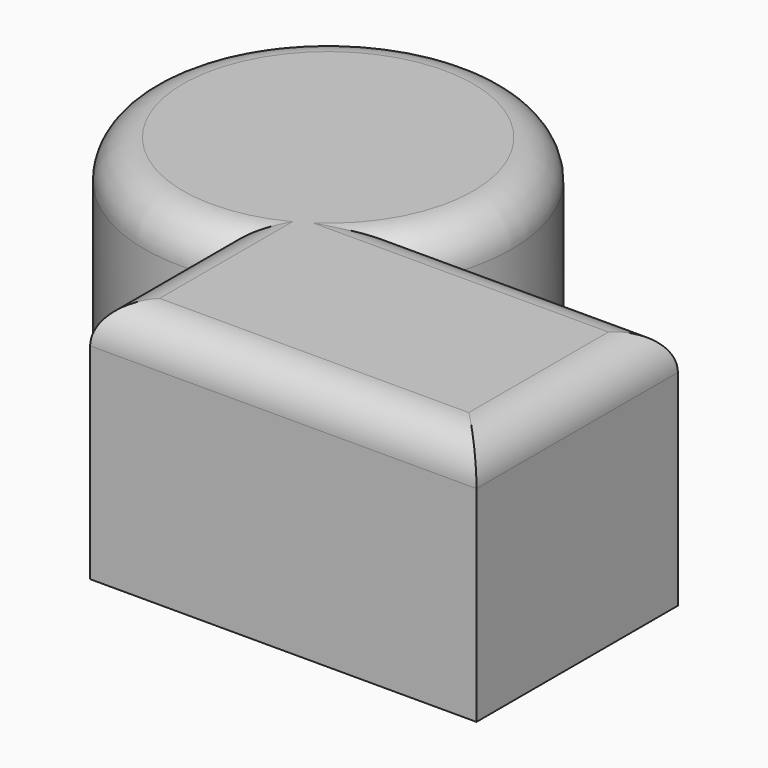
from build123d import *

# Parameters (mm, degrees)
F1_DEPTH = 31.6
F2_R     = 5


with BuildPart() as f1:
    # F0 (on Top) → F1 (new body)
    with BuildSketch(Plane.XY):
        with BuildLine():
            Line((16.578948, 12.720055), (-15.853311, 12.720055))
            ThreePointArc((-15.853311, 12.720055), (-51.23994, 42.468303), (-33.443742, -0.198629))
            Line((-33.443742, -0.198629), (-33.443742, -19.866154))
            Line((-33.443742, -19.866154), (16.578948, -19.866154))
            Line((16.578948, -19.866154), (16.578948, 12.720055))
        make_face()
    extrude(amount=F1_DEPTH)

    # F2
    f2_edges = [f1.edges().sort_by_distance(p)[0] for p in [
        (0.362819, 12.720055, 31.6),
        (-51.23994, 42.468303, 31.6),
        (-33.443742, -10.032391, 31.6),
        (-8.432397, -19.866154, 31.6),
        (16.578948, -3.573049, 31.6),
    ]]
    fillet(f2_edges, radius=F2_R)


solid = f1.part
